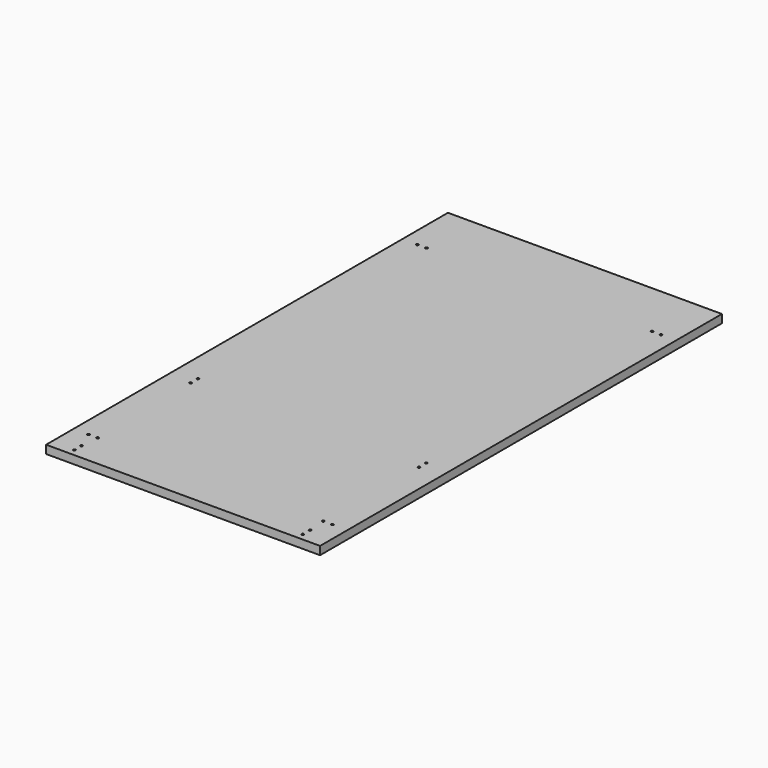
from build123d import *

# Parameters (mm, degrees)
F0_W     = 600
F0_H     = 1100
F1_DEPTH = 18
F2_R     = 2.5
F3_DEPTH = 15


with BuildPart() as f1:
    # F0 (on Top) → F1 (new body)
    with BuildSketch(Plane.XY):
        Rectangle(F0_W, F0_H)
    extrude(amount=F1_DEPTH)

    # F2 (on face) → F3 (cut)
    with BuildSketch(Plane.XY.offset(18)):
        with Locations((247, -475)):
            Circle(F2_R)
        with Locations((267, -475)):
            Circle(F2_R)
        with Locations((250, -217)):
            Circle(F2_R)
        with Locations((250, -197)):
            Circle(F2_R)
        with Locations((267, 425)):
            Circle(F2_R)
        with Locations((247, 425)):
            Circle(F2_R)
        with Locations((-247, 425)):
            Circle(F2_R)
        with Locations((-267, 425)):
            Circle(F2_R)
        with Locations((-250, -197)):
            Circle(F2_R)
        with Locations((-250, -217)):
            Circle(F2_R)
        with Locations((-267, -475)):
            Circle(F2_R)
        with Locations((-247, -475)):
            Circle(F2_R)
        with Locations((250, -515)):
            Circle(F2_R)
        with Locations((250, -535)):
            Circle(F2_R)
        with Locations((-250, -535)):
            Circle(F2_R)
        with Locations((-250, -515)):
            Circle(F2_R)
    extrude(amount=-F3_DEPTH, mode=Mode.SUBTRACT)


solid = f1.part
